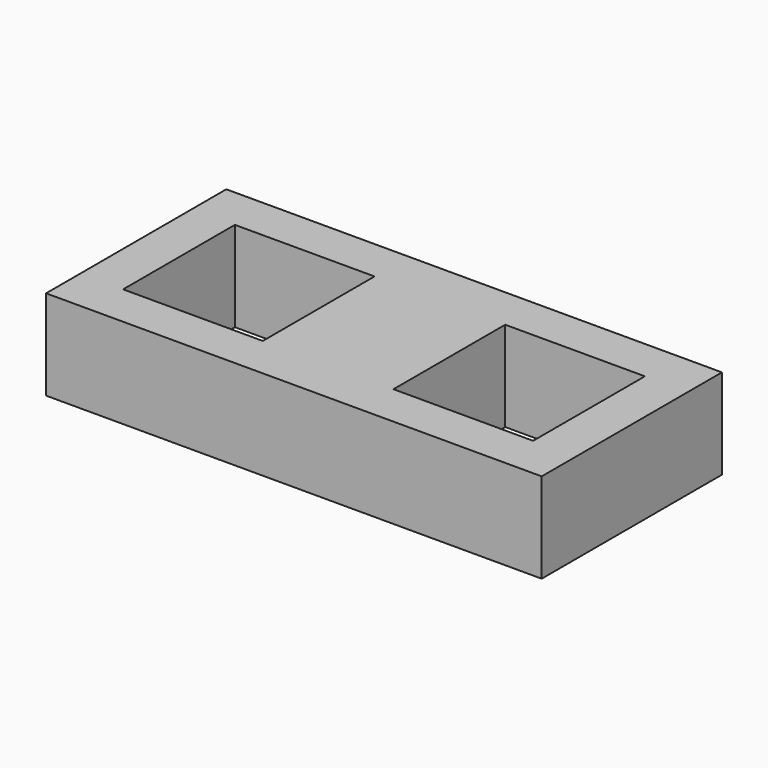
from build123d import *

# Parameters (mm, degrees)
SKETCH_W     = 55
SKETCH_H     = 25
SKETCH_W_2   = 15
SKETCH_H_2   = 15
PAD_DEPTH    = 10
SKETCH001_W  = 15.5
SKETCH001_H  = 15.5
POCKET_DEPTH = 10.001


with BuildPart() as part:
    # Sketch → Pad (new body)
    with BuildSketch(Plane.XY):
        with Locations((22.5, 7.5)):
            Rectangle(SKETCH_W, SKETCH_H)
        with Locations((7.5, 7.5)):
            Rectangle(SKETCH_W_2, SKETCH_H_2, mode=Mode.SUBTRACT)
        with Locations((37.5, 7.5)):
            Rectangle(SKETCH_W_2, SKETCH_H_2, mode=Mode.SUBTRACT)
    extrude(amount=PAD_DEPTH)

    # Sketch001 (on Face14 of Pad) → Pocket (cut, through all)
    with BuildSketch(Plane.XY.offset(10)):
        with Locations((7.5, 7.5)):
            Rectangle(SKETCH001_W, SKETCH001_H)
        with Locations((37.5, 7.5)):
            Rectangle(SKETCH001_W, SKETCH001_H)
    extrude(amount=-POCKET_DEPTH, mode=Mode.SUBTRACT)


solid = part.part
